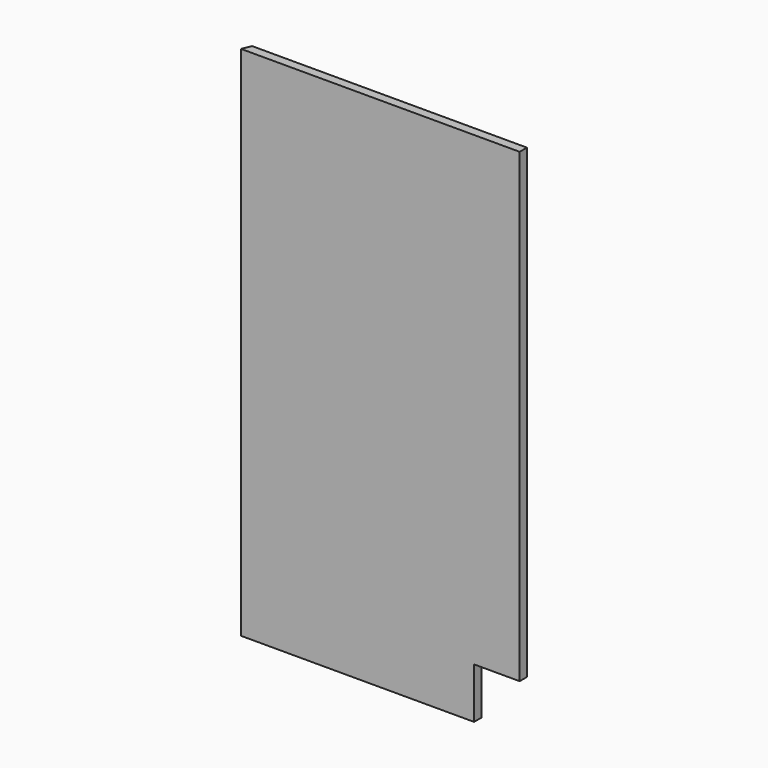
from build123d import *

# Parameters (mm, degrees)
F1_DEPTH = 1020
F2_W     = 90
F2_H     = 100
F3_DEPTH = 25


with BuildPart() as f1:
    # F0 (on Top) → F1 (new body)
    with BuildSketch(Plane.XY):
        Polygon((7.455844, 18), (0, 0), (550, 0), (550, 18), align=None)
    extrude(amount=F1_DEPTH)

    # F2 (on Front) → F3 (cut)
    with BuildSketch(Plane.XZ):
        with Locations((505, 50)):
            Rectangle(F2_W, F2_H)
    extrude(amount=-F3_DEPTH, mode=Mode.SUBTRACT)


solid = f1.part
